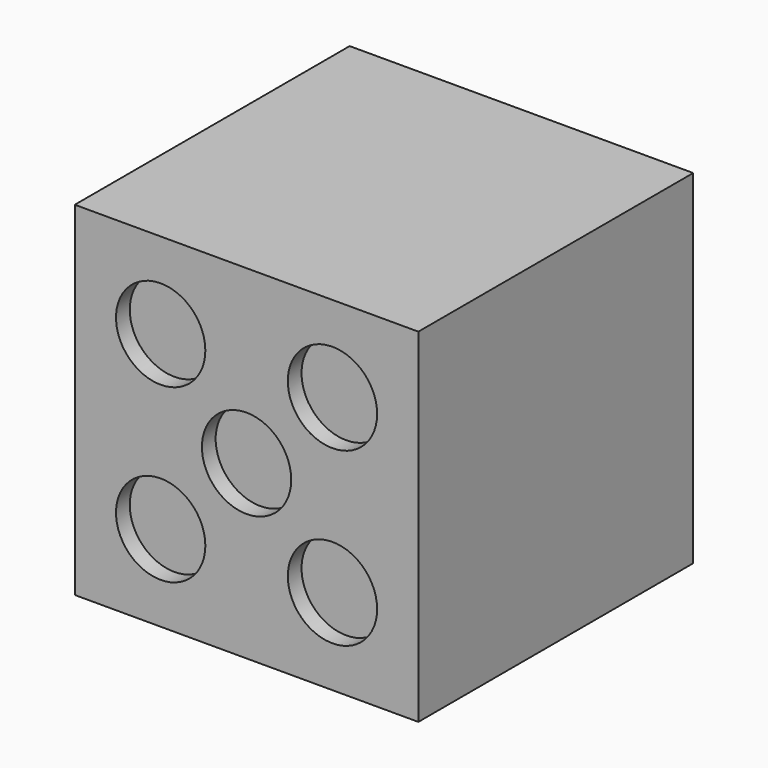
from build123d import *

# Parameters (mm, degrees)
F0_W     = 20
F0_H     = 20
F1_DEPTH = 20
F2_R     = 2.6
F3_DEPTH = 1


with BuildPart() as f1:
    # F0 (on Front) → F1 (new body)
    with BuildSketch(Plane.XZ):
        with Locations((10, 10)):
            Rectangle(F0_W, F0_H)
    extrude(amount=F1_DEPTH)

    # F2 (on face) → F3 (cut)
    with BuildSketch(Plane.XZ.offset(20)):
        with Locations((10, 10)):
            Circle(F2_R)
        with Locations((5, 15)):
            Circle(F2_R)
        with Locations((15, 15)):
            Circle(F2_R)
        with Locations((15, 5)):
            Circle(F2_R)
        with Locations((5, 5)):
            Circle(F2_R)
    extrude(amount=-F3_DEPTH, mode=Mode.SUBTRACT)


solid = f1.part
